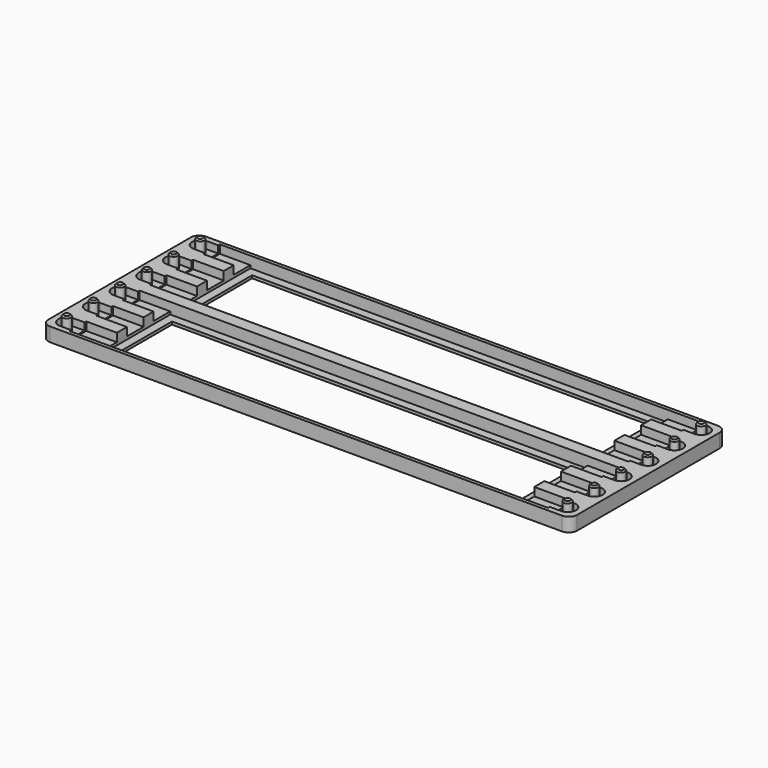
from build123d import *

# Parameters (mm, degrees)
F0_W      = 20
F0_H      = 70
F1_DEPTH  = 4
F3_DEPTH  = 2.6
F4_W      = 11
F4_H      = 7.5
F5_DEPTH  = 3
F6_R      = 1.45
F7_DEPTH  = 5
F8_SIZE   = 0.5
F10_W     = 75
F10_H     = 70
F9_W      = 20
F9_H      = 70
F11_DEPTH = 1
F14_W     = 150
F14_H     = 1.25
F14_H_2   = 4.5
F15_DEPTH = 4
F16_W     = 144
F16_H     = 25.5
F17_DEPTH = 1
F18_R     = 3


with BuildPart() as f1:
    # F0 (on Top) → F1 (new body)
    with BuildSketch(Plane.XY):
        with Locations((5, 30)):
            Rectangle(F0_W, F0_H)
    extrude(amount=F1_DEPTH)

    # F2 (on face) → F3 (cut)
    with BuildSketch(Plane.XY.offset(4)):
        with BuildLine():
            Line((15, 3), (0, 3))
            ThreePointArc((0, 3), (-3, 0), (0, -3))
            Line((0, -3), (15, -3))
            Line((15, -3), (15, 3))
        make_face()
        with BuildLine():
            Line((15, 15), (0, 15))
            ThreePointArc((0, 15), (-3, 12), (0, 9))
            Line((0, 9), (15, 9))
            Line((15, 9), (15, 15))
        make_face()
        with BuildLine():
            Line((15, 27), (0, 27))
            ThreePointArc((0, 27), (-3, 24), (0, 21))
            Line((0, 21), (15, 21))
            Line((15, 21), (15, 27))
        make_face()
        with BuildLine():
            Line((15, 39), (0, 39))
            ThreePointArc((0, 39), (-3, 36), (0, 33))
            Line((0, 33), (15, 33))
            Line((15, 33), (15, 39))
        make_face()
        with BuildLine():
            Line((15, 51), (0, 51))
            ThreePointArc((0, 51), (-3, 48), (0, 45))
            Line((0, 45), (15, 45))
            Line((15, 45), (15, 51))
        make_face()
        with BuildLine():
            Line((15, 63), (0, 63))
            ThreePointArc((0, 63), (-3, 60), (0, 57))
            Line((0, 57), (15, 57))
            Line((15, 57), (15, 63))
        make_face()
    extrude(amount=-F3_DEPTH, mode=Mode.SUBTRACT)

    # F4 (on face) → F5 (cut)
    with BuildSketch(Plane.XY.offset(4)):
        with Locations((9.5, 0)):
            Rectangle(F4_W, F4_H)
        Polygon((15, 15), (15, 15.75), (4, 15.75), (4, 15), (4, 8.25), (15, 8.25), (15, 9), align=None)
        Polygon((15, 27), (15, 27.75), (4, 27.75), (4, 27), (4, 20.25), (15, 20.25), (15, 21), align=None)
        Polygon((15, 39), (15, 39.75), (4, 39.75), (4, 39), (4, 32.25), (15, 32.25), (15, 33), align=None)
        Polygon((15, 51), (15, 51.75), (4, 51.75), (4, 51), (4, 44.25), (15, 44.25), (15, 45), align=None)
        Polygon((15, 63), (15, 63.75), (4, 63.75), (4, 63), (4, 56.25), (15, 56.25), (15, 57), align=None)
    extrude(amount=-F5_DEPTH, mode=Mode.SUBTRACT)

    # F6 (on face) → F7 (join)
    with BuildSketch(Plane.XY.offset(1.4)):
        Circle(F6_R)
        with Locations((0, 12)):
            Circle(F6_R)
        with Locations((0, 24)):
            Circle(F6_R)
        with Locations((0, 36)):
            Circle(F6_R)
        with Locations((0, 48)):
            Circle(F6_R)
        with Locations((0, 60)):
            Circle(F6_R)
    extrude(amount=F7_DEPTH)

    # F8
    f8_edges = [f1.edges().sort_by_distance(p)[0] for p in [
        (-1.45, 0, 6.4),
        (-1.45, 12, 6.4),
        (-1.45, 24, 6.4),
        (-1.45, 36, 6.4),
        (-1.45, 60, 6.4),
        (-1.45, 48, 6.4),
    ]]
    chamfer(f8_edges, length=F8_SIZE)

    # F10 (on face) + F9 (on face) → F11 (join)
    with BuildSketch(Plane(origin=(0, 0, 0), x_dir=(1, 0, 0), z_dir=(0, 0, -1))):
        with Locations((52.5, -30)):
            Rectangle(F10_W, F10_H)
    with BuildSketch(Plane(origin=(0, 0, 0), x_dir=(1, 0, 0), z_dir=(0, 0, -1))):
        with Locations((5, -30)):
            Rectangle(F9_W, F9_H)
    extrude(amount=F11_DEPTH)

    # F13: F1 across plane


with BuildPart() as f1_1:
    add(f1.part)
    add(f1.part.mirror(Plane(origin=(90, 30, -0.5), x_dir=(0, 1, 0), z_dir=(1, 0, 0))))

    # F14 (on face) → F15 (join, through all)
    with BuildSketch(Plane.XY.offset(4)):
        with Locations((90, -4.375)):
            Rectangle(F14_W, F14_H)
        with Locations((90, 30)):
            Rectangle(F14_W, F14_H_2)
        with Locations((90, 64.375)):
            Rectangle(F14_W, F14_H)
    extrude(amount=-F15_DEPTH)

    # F16 (on face) → F17 (cut, through all)
    with BuildSketch(Plane.XY):
        with Locations((90, 12)):
            Rectangle(F16_W, F16_H)
        with Locations((90, 48)):
            Rectangle(F16_W, F16_H)
    extrude(amount=-F17_DEPTH, mode=Mode.SUBTRACT)

    # F18
    f18_edges = [f1_1.edges().sort_by_distance(p)[0] for p in [
        (-5, -5, 1.5),
        (185, -5, 1.5),
        (185, 65, 1.5),
        (-5, 65, 1.5),
    ]]
    fillet(f18_edges, radius=F18_R)


solid = f1_1.part
